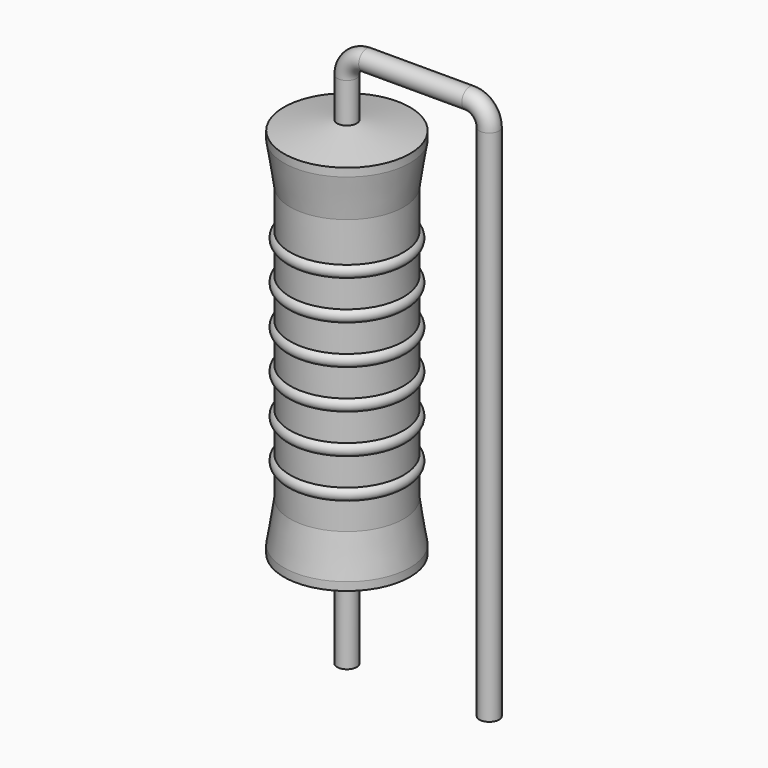
from build123d import *

# Parameters (mm, degrees)
SKETCH_R = 0.35


with BuildPart() as revolution:
    # Sketch002 → Revolution (revolve)
    with BuildSketch(Plane.XZ):
        Polygon((0, 0.1), (0, 14.1), (0.2625, 14.1), (2.25, 13.75), (2.25, 13.4575), (2.025, 12), (2.025, 2.2), (2.25, 0.7425), (2.25, 0.45), (0.2625, 0.1), align=None)
    revolve(axis=Axis((0, 0, 0), (0, 0, 1)))


with BuildPart() as revolution001:
    # Sketch003 → Revolution001 (revolve)
    with BuildSketch(Plane.XZ):
        with BuildLine():
            Line((1.8, 11.55), (1.8, 2.2))
            Line((1.8, 2.2), (1.935, 2.2))
            Line((1.935, 2.2), (1.935, 3.15))
            ThreePointArc((1.935, 3.15), (2.16, 3.375), (1.935, 3.6))
            Line((1.935, 3.6), (1.935, 4.55))
            ThreePointArc((1.935, 4.55), (2.16, 4.775), (1.935, 5))
            Line((1.935, 5), (1.935, 5.95))
            ThreePointArc((1.935, 5.95), (2.16, 6.175), (1.935, 6.4))
            Line((1.935, 6.4), (1.935, 7.35))
            ThreePointArc((1.935, 7.35), (2.16, 7.575), (1.935, 7.8))
            Line((1.935, 7.8), (1.935, 8.75))
            ThreePointArc((1.935, 8.75), (2.16, 8.975), (1.935, 9.2))
            Line((1.935, 9.2), (1.935, 10.15))
            ThreePointArc((1.935, 10.15), (2.16, 10.375), (1.935, 10.6))
            Line((1.935, 11.55), (1.935, 10.6))
            Line((1.8, 11.55), (1.935, 11.55))
        make_face()
    revolve(axis=Axis((0, 0, 0), (0, 0, 1)))


with BuildPart() as obj1:
    # Sweep: sweep along a path in Sketch001
    with BuildLine(Plane.XZ) as sweep_path:
        Line((0, -3), (0, 15.5))
        ThreePointArc((0, 15.5), (0.205028, 15.994978), (0.700008, 16.2))
        Line((0.700008, 16.2), (4.38, 16.2))
        ThreePointArc((4.38, 16.2), (4.874975, 15.994975), (5.08, 15.5))
        Line((5.08, 15.5), (5.08, -3))
    # Sketch → Sweep (sweep)
    with BuildSketch(Plane.XY.offset(-2)):
        Circle(SKETCH_R)
    sweep(path=sweep_path.line)

    # obj1: union Revolution, Revolution001
    add(revolution.part)
    add(revolution001.part)


solid = obj1.part
